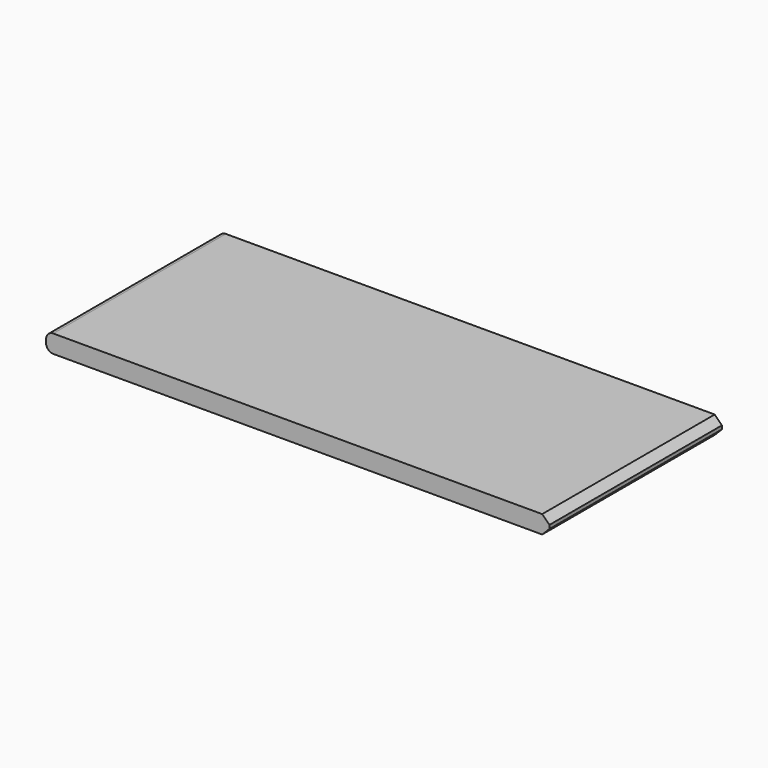
from build123d import *

# Parameters (mm, degrees)
F0_W     = 177.8
F0_H     = 76.2
F1_DEPTH = 6.35
F2_R     = 2.54
F3_SIZE  = 2.54


with BuildPart() as f1:
    # F0 (on Top) → F1 (new body)
    with BuildSketch(Plane.XY):
        with Locations((7.683784, -40.394748)):
            Rectangle(F0_W, F0_H)
    extrude(amount=F1_DEPTH)

    # F2
    f2_edges = [f1.edges().sort_by_distance(p)[0] for p in [
        (-81.216216, -40.394748, 0),
        (-81.216216, -40.394748, 6.35),
    ]]
    fillet(f2_edges, radius=F2_R)

    # F3
    f3_edges = [f1.edges().sort_by_distance(p)[0] for p in [
        (96.583784, -40.394748, 6.35),
        (96.583784, -40.394748, 0),
    ]]
    chamfer(f3_edges, length=F3_SIZE)


solid = f1.part
